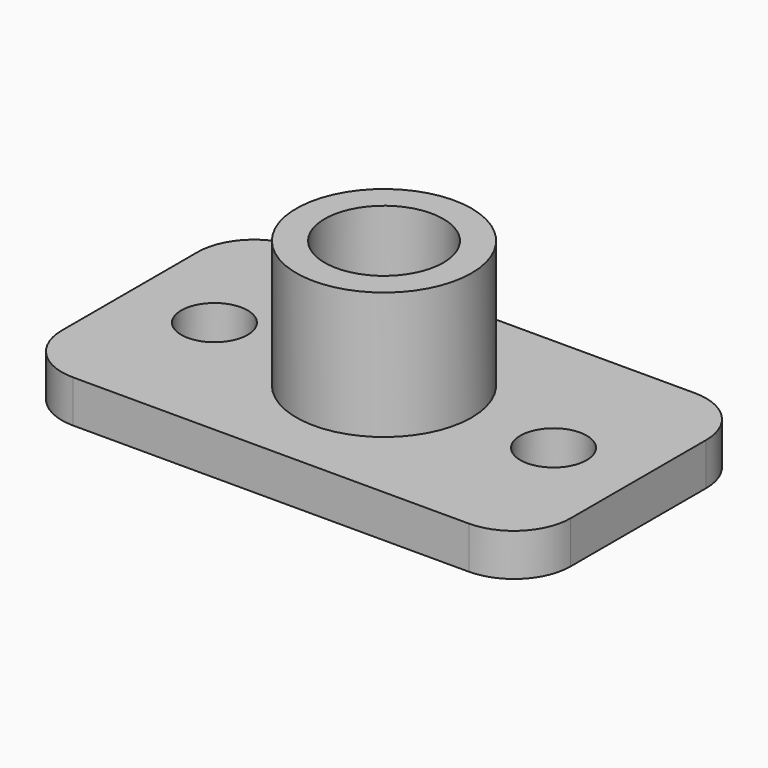
from build123d import *

# Parameters (mm, degrees)
F0_W     = 36
F0_H     = 20
F0_R     = 2.35
F0_R_2   = 6.2
F1_DEPTH = 3
F0_R_3   = 4.2
F2_DEPTH = 12
F3_R     = 4


with BuildPart() as f1:
    # F0 (on Top) → F1 (new body)
    with BuildSketch(Plane.XY):
        Rectangle(F0_W, F0_H)
        with Locations((-12, 0)):
            Circle(F0_R, mode=Mode.SUBTRACT)
        Circle(F0_R_2, mode=Mode.SUBTRACT)
        with Locations((12, 0)):
            Circle(F0_R, mode=Mode.SUBTRACT)
    extrude(amount=F1_DEPTH)

    # F0 (on Top) → F2 (join)
    with BuildSketch(Plane.XY):
        Circle(F0_R_2)
        Circle(F0_R_3, mode=Mode.SUBTRACT)
    extrude(amount=F2_DEPTH)

    # F3
    f3_edges = [f1.edges().sort_by_distance(p)[0] for p in [
        (-18, 10, 1.5),
        (-18, -10, 1.5),
        (18, -10, 1.5),
        (18, 10, 1.5),
    ]]
    fillet(f3_edges, radius=F3_R)


solid = f1.part
